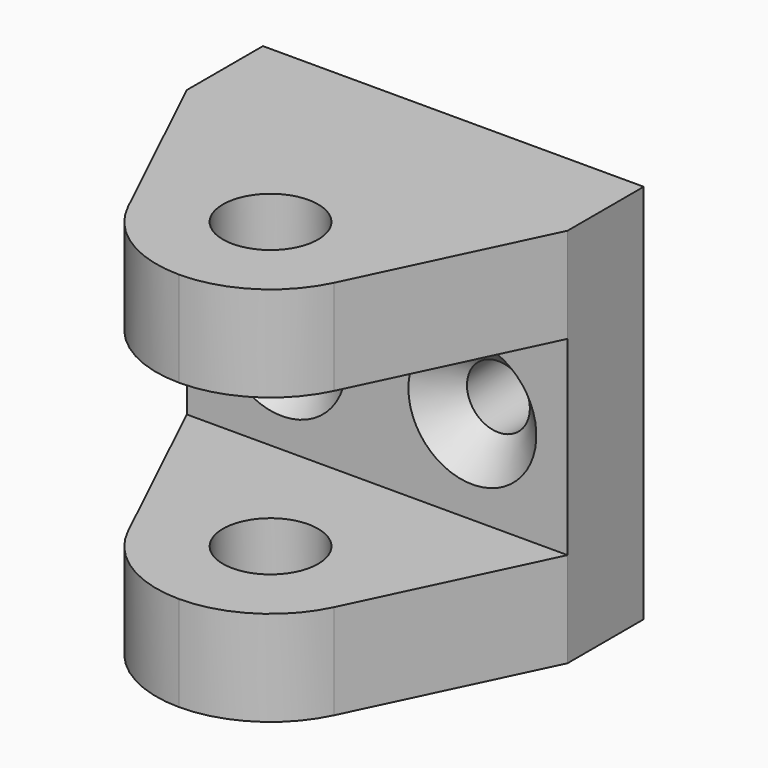
from build123d import *

# Parameters (mm, degrees)
F1_DEPTH       = 20
F3_DEPTH       = 17.4
F4_D           = 5
F4_DEPTH       = 5.001
F5_D           = 5
F7_D           = 3.3
F7_CSINK_D     = 6.72
F7_CSINK_ANGLE = 90


with BuildPart() as f1:
    # F0 (on Right) → F1 (new body)
    with BuildSketch(Plane.YZ):
        Polygon((-2.3540243498, -11.660939306), (-2.3540243498, 8.339060694), (-20.3540243498, 8.339060694), (-20.3540243498, 3.339060694), (-7.3540243498, 3.339060694), (-7.3540243498, -6.660939306), (-20.3540243498, -6.660939306), (-20.3540243498, -11.660939306), align=None)
    extrude(amount=F1_DEPTH)

    # F2 (on face) → F3 (cut, symmetric)
    with BuildSketch(Plane.XY.offset(-6.660939306)):
        with BuildLine():
            ThreePointArc((10, -20.3540243498), (6.8012442082, -19.4302396116), (4.5874756769, -16.9433448113))
            Line((4.5874756769, -16.9433448113), (0, -7.3540243498))
            Line((0, -7.3540243498), (0, -20.3540243498))
            Line((0, -20.3540243498), (10, -20.3540243498))
        make_face()
        with BuildLine():
            ThreePointArc((15.4125243231, -16.9433448113), (13.1987557918, -19.4302396116), (10, -20.3540243498))
            Line((10, -20.3540243498), (20, -20.3540243498))
            Line((20, -20.3540243498), (20, -7.3540243498))
            Line((20, -7.3540243498), (15.4125243231, -16.9433448113))
        make_face()
    extrude(amount=F3_DEPTH, both=True, mode=Mode.SUBTRACT)

    # F4 (through all, one way)
    with BuildSketch(Plane.XY.offset(-6.660939306)):
        with Locations((10, -14.3540243498)):
            Circle(F4_D / 2)
    extrude(amount=-F4_DEPTH, mode=Mode.SUBTRACT)

    # F5 (through all)
    with Locations(Plane(origin=(0, 0, -6.660939306), x_dir=(1, 0, 0), z_dir=(0, 0, -1))):
        with Locations((10, 14.3540243498)):
            Hole(F5_D / 2)

    # F7 (through all)
    with Locations(Plane.XZ.offset(7.3540243498)):
        with Locations((5, -1.751396223), (15, -1.660939306)):
            CounterSinkHole(F7_D / 2, F7_CSINK_D / 2, counter_sink_angle=F7_CSINK_ANGLE)


solid = f1.part
